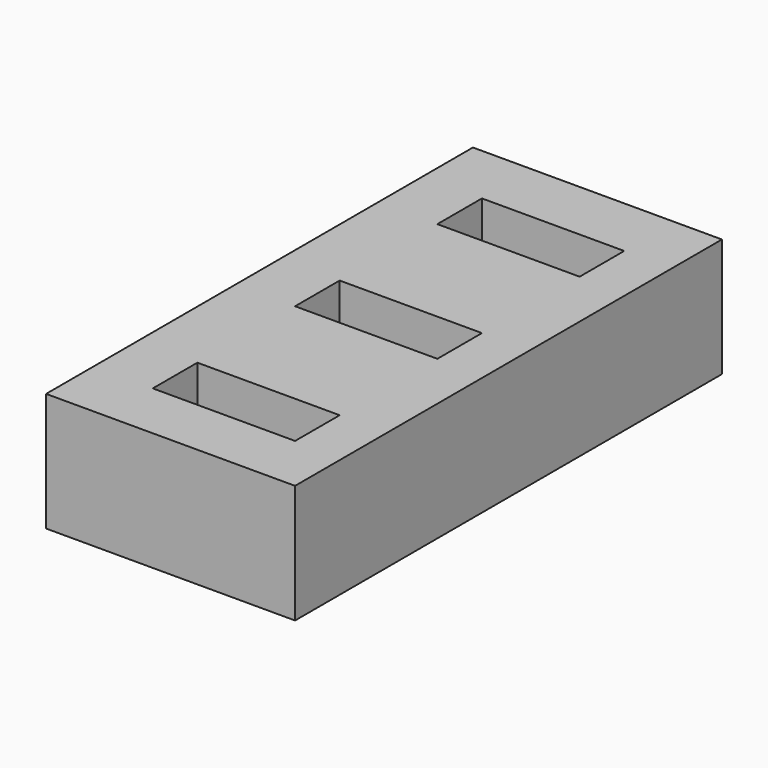
from build123d import *

# Parameters (mm, degrees)
BOX001_W     = 12
BOX001_H     = 4.7
BOX001_DEPTH = 11
BOX_W        = 12
BOX_H        = 4.7
BOX_DEPTH    = 11
BOX002_W     = 12
BOX002_H     = 4.7
BOX002_DEPTH = 11
BOX003_W     = 21
BOX003_H     = 45
BOX003_DEPTH = 10


with BuildPart() as box001:
    # Box001 → Box001 (new body)
    with BuildSketch(Plane(origin=(0, -15, 0), x_dir=(1, 0, 0), z_dir=(0, 0, 1))):
        with Locations((6, 2.35)):
            Rectangle(BOX001_W, BOX001_H)
    extrude(amount=BOX001_DEPTH)


with BuildPart() as box:
    # Box → Box (new body)
    with BuildSketch(Plane.XY):
        with Locations((6, 2.35)):
            Rectangle(BOX_W, BOX_H)
    extrude(amount=BOX_DEPTH)


with BuildPart() as fusion:
    # Box002 → Box002 (new body)
    with BuildSketch(Plane(origin=(0, 15, 0), x_dir=(1, 0, 0), z_dir=(0, 0, 1))):
        with Locations((6, 2.35)):
            Rectangle(BOX002_W, BOX002_H)
    extrude(amount=BOX002_DEPTH)

    # Fusion: union Box001, Box
    add(box001.part)
    add(box.part)


with BuildPart() as fusion_1:
    # Fusion placement: moved
    add(fusion.part.moved(Location((5, 20, 3))))


with BuildPart() as porta_pendrives:
    # Box003 → Box003 (new body)
    with BuildSketch(Plane.XY):
        with Locations((10.5, 22.5)):
            Rectangle(BOX003_W, BOX003_H)
    extrude(amount=BOX003_DEPTH)

    # Cut: cut Fusion
    add(fusion_1.part, mode=Mode.SUBTRACT)


solid = porta_pendrives.part
